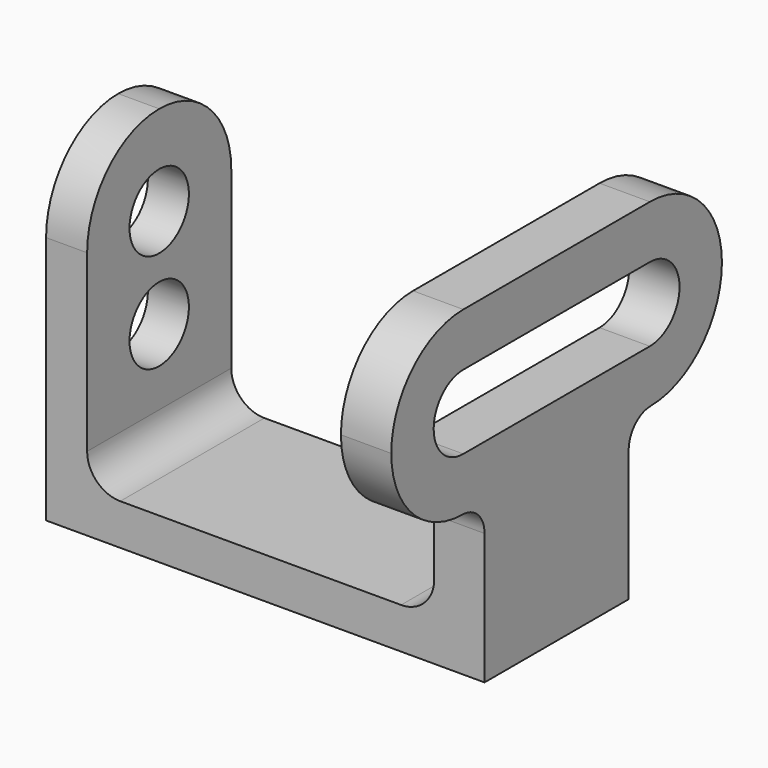
from build123d import *

# Parameters (mm, degrees)
F1_DEPTH = 79.248
F3_DEPTH = 67.31
F4_R     = 7.112
F5_DEPTH = 18.796


with BuildPart() as f1:
    # F0 (on Front) → F1 (new body)
    with BuildSketch(Plane.XZ):
        with BuildLine():
            Line((-42.037, 65.024), (-42.037, 0))
            Line((-42.037, 0), (42.037, 0))
            Line((42.037, 0), (42.037, 65.024))
            Line((42.037, 65.024), (32.385, 65.024))
            Line((32.385, 65.024), (32.385, 14.224))
            ThreePointArc((32.385, 14.224), (30.5251280605, 9.7338719395), (26.035, 7.874))
            Line((26.035, 7.874), (-27.813, 7.874))
            ThreePointArc((-27.813, 7.874), (-32.3031280605, 9.7338719395), (-34.163, 14.224))
            Line((-34.163, 14.224), (-34.163, 65.024))
            Line((-34.163, 65.024), (-42.037, 65.024))
        make_face()
    extrude(amount=F1_DEPTH)

    # F2 (on face) → F3 (cut)
    with BuildSketch(Plane.YZ.offset(42.037)):
        with BuildLine():
            ThreePointArc((-62.1700674157, 30.4810903008), (-74.257569859, 35.6076586923), (-79.248, 47.752))
            Line((-79.248, 47.752), (-79.248, 0))
            Line((-79.248, 0), (-56.896, 0))
            Line((-56.896, 0), (-56.896, 25.1474270113))
            ThreePointArc((-56.896, 25.1474270113), (-58.4371622494, 28.8978853564), (-62.1700674157, 30.4810903008))
        make_face()
        with BuildLine():
            Line((-39.624, 54.864), (-61.976, 54.864))
            ThreePointArc((-61.976, 54.864), (-69.088, 47.752), (-61.976, 40.64))
            Line((-61.976, 40.64), (-39.624, 40.64))
            Line((-39.624, 40.64), (-17.272, 40.64))
            ThreePointArc((-17.272, 40.64), (-10.16, 47.752), (-17.272, 54.864))
            Line((-17.272, 54.864), (-39.624, 54.864))
        make_face()
        with BuildLine():
            Line((0, 0), (0, 47.752))
            ThreePointArc((0, 47.752), (-4.990430141, 35.6076586923), (-17.0779325843, 30.4810903008))
            ThreePointArc((-17.0779325843, 30.4810903008), (-20.8108377506, 28.8978853564), (-22.352, 25.1474270113))
            Line((-22.352, 25.1474270113), (-22.352, 0))
            Line((-22.352, 0), (0, 0))
        make_face()
        with BuildLine():
            Line((0, 65.024), (-17.272, 65.024))
            ThreePointArc((-17.272, 65.024), (-5.0588516753, 59.9651483247), (0, 47.752))
            Line((0, 47.752), (0, 65.024))
        make_face()
        with BuildLine():
            ThreePointArc((-79.248, 47.752), (-74.1891483247, 59.9651483247), (-61.976, 65.024))
            Line((-61.976, 65.024), (-79.248, 65.024))
            Line((-79.248, 65.024), (-79.248, 47.752))
        make_face()
    extrude(amount=-F3_DEPTH, mode=Mode.SUBTRACT)

    # F4 (on face) + F1_face (on face) → F5 (cut)
    with BuildSketch(Plane(origin=(-42.037, 0, 0), x_dir=(0, -1, 0), z_dir=(-1, 0, 0))):
        with BuildLine():
            ThreePointArc((22.352, 47.752), (27.4108516753, 59.9651483247), (39.624, 65.024))
            Line((39.624, 65.024), (0, 65.024))
            Line((0, 65.024), (0, 0))
            Line((0, 0), (22.352, 0))
            Line((22.352, 0), (22.352, 47.752))
        make_face()
        with BuildLine():
            ThreePointArc((39.624, 65.024), (51.8371483247, 59.9651483247), (56.896, 47.752))
            Line((56.896, 47.752), (56.896, 0))
            Line((56.896, 0), (79.248, 0))
            Line((79.248, 0), (79.248, 65.024))
            Line((79.248, 65.024), (39.624, 65.024))
        make_face()
        with Locations((39.624, 47.752)):
            Circle(F4_R)
        with Locations((39.624, 28.702)):
            Circle(F4_R)
    with BuildSketch(Plane(origin=(42.037, -39.624, 32.512), x_dir=(0, 1, 0), z_dir=(1, 0, 0))):
        with BuildLine():
            Line((17.272, -32.512), (17.272, -7.3645729887))
            ThreePointArc((17.272, -7.3645729887), (18.8131622494, -3.6141146436), (22.5460674157, -2.0309096992))
            ThreePointArc((22.5460674157, -2.0309096992), (39.6237274227, 15.3370352392), (22.352, 32.512))
            Line((22.352, 32.512), (-22.352, 32.512))
            ThreePointArc((-22.352, 32.512), (-39.6237274227, 15.3370352392), (-22.5460674157, -2.0309096992))
            ThreePointArc((-22.5460674157, -2.0309096992), (-18.8131622494, -3.6141146436), (-17.272, -7.3645729887))
            Line((-17.272, -7.3645729887), (-17.272, -32.512))
            Line((-17.272, -32.512), (17.272, -32.512))
        make_face()
        with BuildLine():
            ThreePointArc((22.352, 22.352), (29.464, 15.24), (22.352, 8.128))
            Line((22.352, 8.128), (-22.352, 8.128))
            ThreePointArc((-22.352, 8.128), (-29.464, 15.24), (-22.352, 22.352))
            Line((-22.352, 22.352), (22.352, 22.352))
        make_face(mode=Mode.SUBTRACT)
    extrude(amount=-F5_DEPTH, dir=(-1, 0, 0), mode=Mode.SUBTRACT)


solid = f1.part
